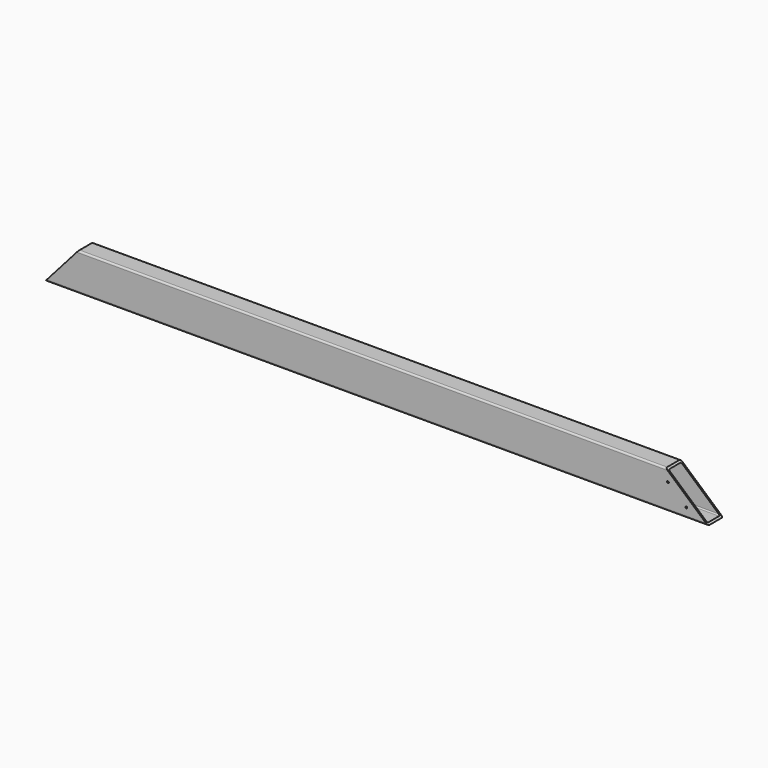
from build123d import *

# Parameters (mm, degrees)
F0_W      = 3544
F0_H      = 200
F1_DEPTH  = 100
F2_W      = 84
F2_H      = 184
F3_DEPTH  = 3550
F5_DEPTH  = 8
F6_R      = 5
F7_DEPTH  = 8
F9_DEPTH  = 100
F10_DEPTH = 100
F11_R     = 9
F12_R     = 6
F13_R     = 5
F14_DEPTH = 25


with BuildPart() as f1:
    # F0 (on Front) → F1 (new body)
    with BuildSketch(Plane.XZ):
        with Locations((-1491.1203327179, 330.0371766059)):
            Rectangle(F0_W, F0_H)
    extrude(amount=F1_DEPTH)

    # F2 (on face) → F3 (cut)
    with BuildSketch(Plane.YZ.offset(280.8796672821)):
        with Locations((-50, 330.0371766059)):
            Rectangle(F2_W, F2_H)
    extrude(amount=-F3_DEPTH, mode=Mode.SUBTRACT)

    # F5 (add): a face of the model
    f5_faces = [f1.faces().sort_by_distance(p)[0] for p in [
        (280.8796672821, -50, 232.2732445834),
    ]]
    extrude(f5_faces, amount=F5_DEPTH)

    # F6 (on face) → F7 (cut)
    with BuildSketch(Plane(origin=(0, 0, 230.0371766059), x_dir=(1, 0, 0), z_dir=(0, 0, -1))):
        with Locations((-3180.1203327179, 75)):
            Circle(F6_R)
        with Locations((-3140.1203327179, 75)):
            Circle(F6_R)
        with Locations((-3160.1203327179, 55)):
            Circle(F6_R)
        with Locations((-3180.1203327179, 35)):
            Circle(F6_R)
        with Locations((-3140.1203327179, 35)):
            Circle(F6_R)
        with Locations((-2878.1203327179, 75)):
            Circle(F6_R)
        with Locations((-2838.1203327179, 75)):
            Circle(F6_R)
        with Locations((-2858.1203327179, 55)):
            Circle(F6_R)
        with Locations((-2878.1203327179, 35)):
            Circle(F6_R)
        with Locations((-2838.1203327179, 35)):
            Circle(F6_R)
        with Locations((-2576.1203327179, 75)):
            Circle(F6_R)
        with Locations((-2536.1203327179, 75)):
            Circle(F6_R)
        with Locations((-2556.1203327179, 55)):
            Circle(F6_R)
        with Locations((-2576.1203327179, 35)):
            Circle(F6_R)
        with Locations((-2536.1203327179, 35)):
            Circle(F6_R)
        with Locations((-2274.1203327179, 75)):
            Circle(F6_R)
        with Locations((-2234.1203327179, 75)):
            Circle(F6_R)
        with Locations((-2254.1203327179, 55)):
            Circle(F6_R)
        with Locations((-2274.1203327179, 35)):
            Circle(F6_R)
        with Locations((-2234.1203327179, 35)):
            Circle(F6_R)
        with Locations((-1972.1203327179, 75)):
            Circle(F6_R)
        with Locations((-1932.1203327179, 75)):
            Circle(F6_R)
        with Locations((-1952.1203327179, 55)):
            Circle(F6_R)
        with Locations((-1972.1203327179, 35)):
            Circle(F6_R)
        with Locations((-1932.1203327179, 35)):
            Circle(F6_R)
        with Locations((-1670.1203327179, 75)):
            Circle(F6_R)
        with Locations((-1630.1203327179, 75)):
            Circle(F6_R)
        with Locations((-1650.1203327179, 55)):
            Circle(F6_R)
        with Locations((-1670.1203327179, 35)):
            Circle(F6_R)
        with Locations((-1630.1203327179, 35)):
            Circle(F6_R)
        with Locations((-1368.1203327179, 75)):
            Circle(F6_R)
        with Locations((-1328.1203327179, 75)):
            Circle(F6_R)
        with Locations((-1348.1203327179, 55)):
            Circle(F6_R)
        with Locations((-1368.1203327179, 35)):
            Circle(F6_R)
        with Locations((-1328.1203327179, 35)):
            Circle(F6_R)
        with Locations((-1066.1203327179, 75)):
            Circle(F6_R)
        with Locations((-1026.1203327179, 75)):
            Circle(F6_R)
        with Locations((-1046.1203327179, 55)):
            Circle(F6_R)
        with Locations((-1066.1203327179, 35)):
            Circle(F6_R)
        with Locations((-1026.1203327179, 35)):
            Circle(F6_R)
        with Locations((-764.1203327179, 75)):
            Circle(F6_R)
        with Locations((-724.1203327179, 75)):
            Circle(F6_R)
        with Locations((-744.1203327179, 55)):
            Circle(F6_R)
        with Locations((-764.1203327179, 35)):
            Circle(F6_R)
        with Locations((-724.1203327179, 35)):
            Circle(F6_R)
        with Locations((-160.1203327179, 75)):
            Circle(F6_R)
        with Locations((-120.1203327179, 75)):
            Circle(F6_R)
        with Locations((-140.1203327179, 55)):
            Circle(F6_R)
        with Locations((-160.1203327179, 35)):
            Circle(F6_R)
        with Locations((-120.1203327179, 35)):
            Circle(F6_R)
        with Locations((141.8796672821, 75)):
            Circle(F6_R)
        with Locations((181.8796672821, 75)):
            Circle(F6_R)
        with Locations((161.8796672821, 55)):
            Circle(F6_R)
        with Locations((141.8796672821, 35)):
            Circle(F6_R)
        with Locations((181.8796672821, 35)):
            Circle(F6_R)
        with Locations((-462.1203327179, 75)):
            Circle(F6_R)
        with Locations((-422.1203327179, 75)):
            Circle(F6_R)
        with Locations((-442.1203327179, 55)):
            Circle(F6_R)
        with Locations((-462.1203327179, 35)):
            Circle(F6_R)
        with Locations((-422.1203327179, 35)):
            Circle(F6_R)
    extrude(amount=-F7_DEPTH, mode=Mode.SUBTRACT)

    # F8 (on face) → F9 (cut)
    with BuildSketch(Plane(origin=(0, 0, 0), x_dir=(-1, 0, 0), z_dir=(0, 1, 0))):
        Polygon((-288.8796672821, 230.0371766059), (-62.8207900098, 430.0371766059), (-288.8796672821, 430.0371766059), align=None)
    extrude(amount=-F9_DEPTH, mode=Mode.SUBTRACT)

    # F8 (on face) → F10 (cut)
    with BuildSketch(Plane(origin=(0, 0, 0), x_dir=(-1, 0, 0), z_dir=(0, 1, 0))):
        Polygon((3263.1203327179, 430.0371766059), (3086.1752798067, 430.0371766059), (3263.1203327179, 230.0371766059), align=None)
    extrude(amount=-F10_DEPTH, mode=Mode.SUBTRACT)

    # F11
    f11_edges = [f1.edges().sort_by_distance(p)[0] for p in [
        (-1487.120333, 0, 230.037177),
        (-1487.120333, -100, 230.037177),
        (-1511.677245, -100, 430.037177),
        (-1511.677245, 0, 430.037177),
    ]]
    fillet(f11_edges, radius=F11_R)

    # F12
    f12_edges = [f1.edges().sort_by_distance(p)[0] for p in [
        (-1488.102609, -92, 238.037177),
        (-1488.102609, -8, 238.037177),
        (-1510.694968, -8, 422.037177),
        (-1510.694968, -92, 422.037177),
    ]]
    fillet(f12_edges, radius=F12_R)

    # F13 (on face) → F14 (cut)
    with BuildSketch(Plane.XZ.offset(100)):
        with Locations((173.1288225481, 279.0371766059)):
            Circle(F13_R)
        with Locations((74.2666674039, 366.5030229704)):
            Circle(F13_R)
    extrude(amount=-F14_DEPTH, mode=Mode.SUBTRACT)


solid = f1.part
